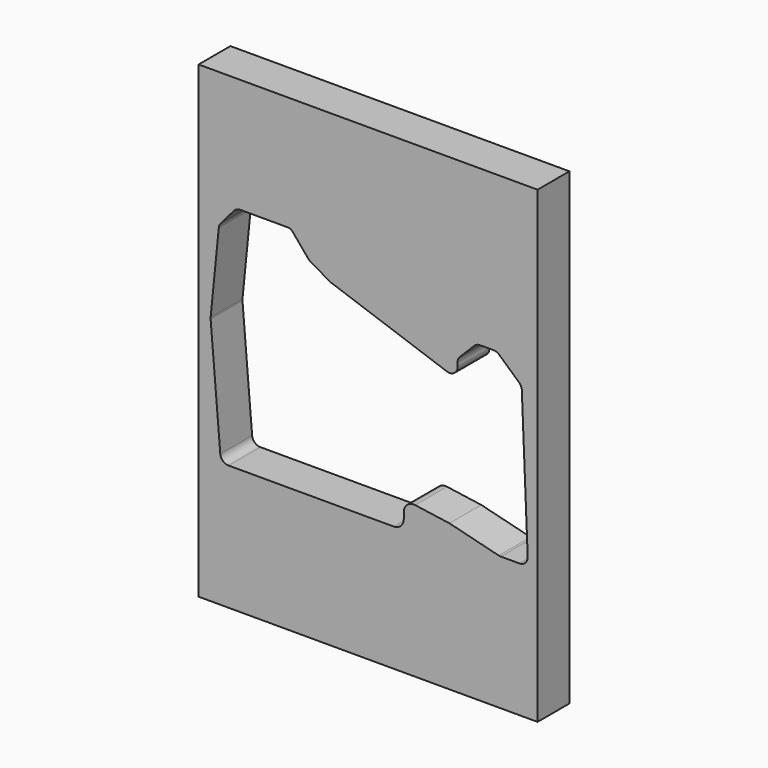
from build123d import *

# Parameters (mm, degrees)
F0_W     = 216.278978
F0_H     = 298.947731
F1_DEPTH = 25.4
F3_DEPTH = 25.401
F4_R     = 5.08


with BuildPart() as f1:
    # F0 (on Front) → F1 (new body)
    with BuildSketch(Plane.XZ):
        with Locations((219.096657, -169.175098)):
            Rectangle(F0_W, F0_H)
        with BuildLine():
            Line((184.616528, -238.748165), (130.02329, -238.748165))
            ThreePointArc((130.02329, -238.748165), (126.474409, -237.364118), (124.799581, -233.942848))
            Line((124.799581, -233.942848), (118.633306, -160.167299))
            ThreePointArc((118.633306, -160.167299), (118.61527, -159.687422), (118.641226, -159.207907))
            Line((118.641226, -159.207907), (123.846745, -107.272929))
            ThreePointArc((123.846745, -107.272929), (124.240313, -105.74049), (125.073194, -104.395284))
            Line((125.073194, -104.395284), (133.473927, -94.539658))
            ThreePointArc((133.473927, -94.539658), (135.266342, -93.180753), (137.463267, -92.698165))
            Line((137.463267, -92.698165), (168.056644, -92.698165))
            ThreePointArc((168.056644, -92.698165), (169.565835, -93.032536), (170.792564, -93.973066))
            Line((170.792564, -93.973066), (180.904666, -106.011276))
            ThreePointArc((180.904666, -106.011276), (181.54046, -106.648087), (182.275801, -107.166771))
            Line((182.275801, -107.166771), (194.915857, -114.54529))
            ThreePointArc((194.915857, -114.54529), (196.686537, -116.243842), (197.490259, -118.562121))
            Line((197.490259, -118.562121), (198.506103, -128.94903))
            ThreePointArc((198.506103, -128.94903), (200.394922, -132.488586), (204.233364, -133.655834))
            Line((204.233364, -133.655834), (214.386911, -132.662812))
            ThreePointArc((214.386911, -132.662812), (218.225352, -133.83006), (220.114172, -137.369617))
            Line((220.114172, -137.369617), (221.566417, -152.21868))
            ThreePointArc((221.566417, -152.21868), (223.26186, -155.591256), (226.783449, -156.950375))
            Line((226.783449, -156.950375), (243.912482, -156.950375))
            ThreePointArc((243.912482, -156.950375), (244.805431, -157.026991), (245.672278, -157.254599))
            Line((245.672278, -157.254599), (263.762319, -163.70189))
            Line((263.762319, -163.70189), (269.194545, -165.637936))
            ThreePointArc((269.194545, -165.637936), (273.975354, -164.984071), (276.196264, -160.700236))
            Line((276.196264, -160.700236), (276.196264, -133.352479))
            ThreePointArc((276.196264, -133.352479), (276.595282, -131.346481), (277.73159, -129.645878))
            Line((277.73159, -129.645878), (286.865628, -120.511846))
            ThreePointArc((286.865628, -120.511846), (288.566229, -119.375541), (290.572226, -118.976524))
            Line((290.572226, -118.976524), (299.14298, -118.976524))
            ThreePointArc((299.14298, -118.976524), (301.0156, -119.322423), (302.641084, -120.314471))
            Line((302.641084, -120.314471), (315.445448, -131.787646))
            ThreePointArc((315.445448, -131.787646), (316.689157, -133.457128), (317.184955, -135.479049))
            Line((317.184955, -135.479049), (320.937758, -227.944813))
            ThreePointArc((320.937758, -227.944813), (319.481155, -231.788052), (315.700147, -233.399309))
            Line((315.700147, -233.399309), (303.73928, -233.399309))
            ThreePointArc((303.73928, -233.399309), (303.098145, -233.359953), (302.466639, -233.242477))
            Line((302.466639, -233.242477), (270.995202, -225.366149))
            ThreePointArc((270.995202, -225.366149), (270.726, -225.306254), (270.45402, -225.260601))
            Line((270.45402, -225.260601), (263.762319, -224.317615))
            Line((263.762319, -224.317615), (223.293336, -218.614775))
            Line((223.293336, -218.614775), (204.573976, -215.976866))
            ThreePointArc((204.573976, -215.976866), (201.545132, -216.45584), (199.302489, -218.547219))
            Line((199.302489, -218.547219), (189.156557, -236.126528))
            ThreePointArc((189.156557, -236.126528), (187.237828, -238.045686), (184.616528, -238.748165))
        make_face(mode=Mode.SUBTRACT)
    extrude(amount=F1_DEPTH)

    # F2 (on face) → F3 (cut, through all)
    with BuildSketch(Plane.XZ.offset(25.4)):
        with BuildLine():
            Line((194.915857, -114.54529), (184.616528, -238.748165))
            Line((184.616528, -238.748165), (235.530938, -238.748165))
            ThreePointArc((235.530938, -238.748165), (240.021066, -236.888293), (241.880938, -232.398165))
            Line((241.880938, -232.398165), (241.880938, -228.548973))
            ThreePointArc((241.880938, -228.548973), (244.068216, -223.753742), (249.123218, -222.261975))
            Line((249.123218, -222.261975), (270.995202, -225.366149))
            Line((270.995202, -225.366149), (270.995202, -172.679961))
            Line((270.995202, -172.679961), (284.431964, -163.976327))
            Line((284.431964, -163.976327), (282.256097, -145.11849))
            Line((282.256097, -145.11849), (194.915857, -114.54529))
        make_face()
    extrude(amount=-F3_DEPTH, mode=Mode.SUBTRACT)

    # F4
    f4_edges = [f1.edges().sort_by_distance(p)[0] for p in [
        (276.196264, -12.7, -142.997263),
    ]]
    fillet(f4_edges, radius=F4_R)


solid = f1.part
